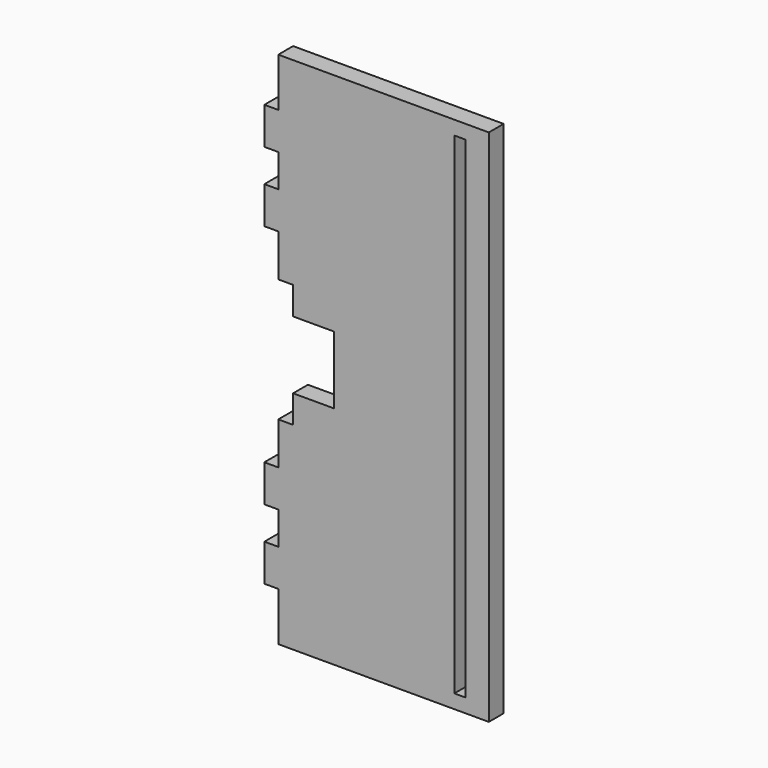
from build123d import *

# Parameters (mm, degrees)
F0_W     = 3.81
F0_H     = 10.16
F2_DEPTH = 5.08
F1_W     = 3.0988
F1_H     = 67.31
F1_W_2   = 4.064
F1_H_2   = 7.62
F1_W_3   = 2.032
F1_H_3   = 9.271
F3_DEPTH = 33.274


with BuildPart() as f2:
    # F0 (on Front) → F2 (new body)
    with BuildSketch(Plane.XZ):
        Polygon((28.8544, 71.12), (-28.8544, 71.12), (-28.8544, 57.785), (-28.8544, 47.625), (-28.8544, 38.6334), (-28.8544, 28.4734), (-28.8544, 0), (-28.8544, -28.4734), (-28.8544, -38.6334), (-28.8544, -47.625), (-28.8544, -57.785), (-28.8544, -71.12), (28.8544, -71.12), align=None)
        with Locations((-30.7594, 52.705)):
            Rectangle(F0_W, F0_H)
        with Locations((-30.7594, 33.5534)):
            Rectangle(F0_W, F0_H)
        with Locations((-30.7594, -52.705)):
            Rectangle(F0_W, F0_H)
        with Locations((-30.7594, -33.5534)):
            Rectangle(F0_W, F0_H)
    extrude(amount=F2_DEPTH)

    # F1 (on Front) → F3 (cut)
    with BuildSketch(Plane.XZ):
        with Locations((20.955, 33.655)):
            Rectangle(F1_W, F1_H)
        with Locations((20.955, -33.655)):
            Rectangle(F1_W, F1_H)
        Polygon((-13.6144, -9.271), (-13.6144, 0), (-13.6144, 9.271), (-24.7904, 9.271), (-26.8224, 9.271), (-26.8224, 0), (-28.8544, 0), (-28.8544, -9.271), (-24.7904, -9.271), align=None)
        Polygon((-26.8224, 9.271), (-24.7904, 9.271), (-24.7904, 16.891), (-28.8544, 16.891), (-28.8544, 9.271), align=None)
        with Locations((-26.8224, -13.081)):
            Rectangle(F1_W_2, F1_H_2)
        with Locations((-27.8384, 4.6355)):
            Rectangle(F1_W_3, F1_H_3)
    extrude(amount=F3_DEPTH, mode=Mode.SUBTRACT)


solid = f2.part
